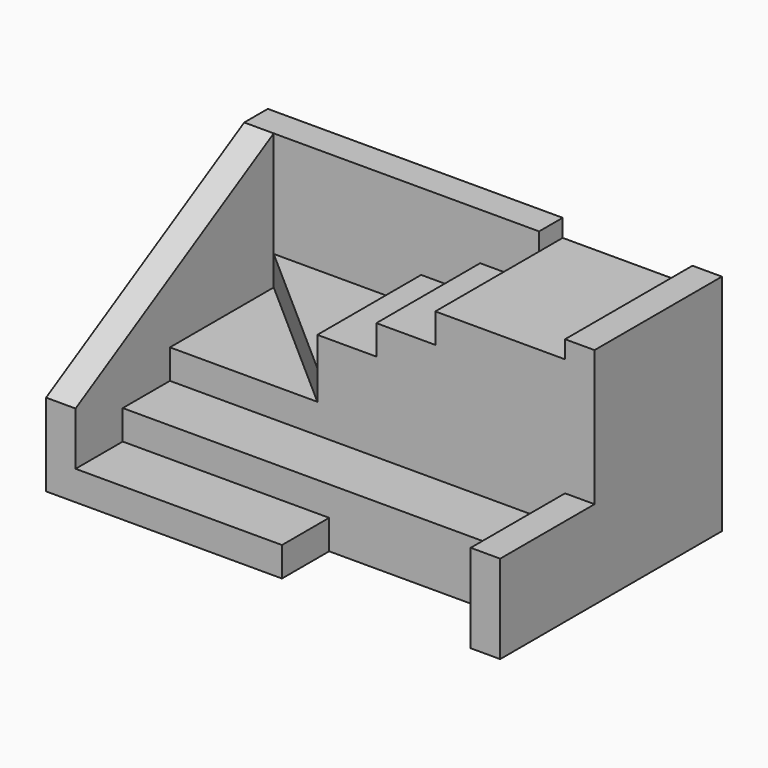
from build123d import *

# Parameters (mm, degrees)
F0_W      = 35
F0_H      = 10
F1_DEPTH  = 5
F2_DEPTH  = 10
F3_DEPTH  = 15
F4_DEPTH  = 38
F5_DEPTH  = 38
F7_DEPTH  = 5
F8_DEPTH  = 15
F0_W_2    = 10
F0_H_2    = 22
F9_DEPTH  = 25
F10_DEPTH = 30
F11_DEPTH = 35
F12_DEPTH = 20
F0_W_3    = 5
F0_H_3    = 27
F13_DEPTH = 38


with BuildPart() as f1:
    # F0 (on Top) → F1 (new body)
    with BuildSketch(Plane.XY):
        with Locations((-16, -18.5)):
            Rectangle(F0_W, F0_H)
    extrude(amount=F1_DEPTH)

    # F0 (on Top) → F2 (join)
    with BuildSketch(Plane.XY):
        Polygon((33.5, -13.5), (33.5, -3.5), (11.5, -3.5), (1.5, -3.5), (-8.5, -3.5), (-33.5, -3.5), (-33.5, -13.5), (1.5, -13.5), align=None)
    extrude(amount=F2_DEPTH)

    # F0 (on Top) → F3 (join)
    with BuildSketch(Plane.XY):
        Polygon((38.5, -3.5), (33.5, -3.5), (33.5, -13.5), (33.5, -23.5), (38.5, -23.5), align=None)
    extrude(amount=F3_DEPTH)



with BuildPart() as f4:
    # F0 (on Top) → F4 (new body)
    with BuildSketch(Plane.XY):
        Polygon((11.5, 23.5), (-38.5, 23.5), (-38.5, 18.5), (-33.5, 18.5), (-8.5, 18.5), (1.5, 18.5), (11.5, 18.5), align=None)
    extrude(amount=F4_DEPTH)


with BuildPart() as f1_1:
    add(f1.part)

    add(f4.part)  # F5 merges F4
    # F0 (on Top) → F5 (join)
    with BuildSketch(Plane.XY):
        Polygon((-33.5, 18.5), (-38.5, 18.5), (-38.5, -23.5), (-33.5, -23.5), (-33.5, -13.5), (-33.5, -3.5), align=None)
    extrude(amount=F5_DEPTH)

    # F6 (on face) → F7 (cut)
    with BuildSketch(Plane.YZ.offset(-33.5)):
        Polygon((-23.5, 14), (18.5, 38), (-23.5, 38), align=None)
    extrude(amount=-F7_DEPTH, mode=Mode.SUBTRACT)

    # F0 (on Top) → F8 (join)
    with BuildSketch(Plane.XY):
        Polygon((-8.5, -3.5), (-33.5, 18.5), (-33.5, -3.5), align=None)
    extrude(amount=F8_DEPTH)

    # F0 (on Top) → F9 (join)
    with BuildSketch(Plane.XY):
        with Locations((-3.5, 7.5)):
            Rectangle(F0_W_2, F0_H_2)
    extrude(amount=F9_DEPTH)

    # F0 (on Top) → F10 (join)
    with BuildSketch(Plane.XY):
        with Locations((6.5, 7.5)):
            Rectangle(F0_W_2, F0_H_2)
    extrude(amount=F10_DEPTH)

    # F0 (on Top) → F11 (join)
    with BuildSketch(Plane.XY):
        Polygon((33.5, 23.5), (11.5, 23.5), (11.5, 18.5), (11.5, -3.5), (33.5, -3.5), align=None)
    extrude(amount=F11_DEPTH)

    # F0 (on Top) → F12 (join)
    with BuildSketch(Plane.XY):
        Polygon((-8.5, 18.5), (-33.5, 18.5), (-8.5, -3.5), align=None)
    extrude(amount=F12_DEPTH)

    # F0 (on Top) → F13 (join)
    with BuildSketch(Plane.XY):
        with Locations((36, 10)):
            Rectangle(F0_W_3, F0_H_3)
    extrude(amount=F13_DEPTH)


solid = f1_1.part
